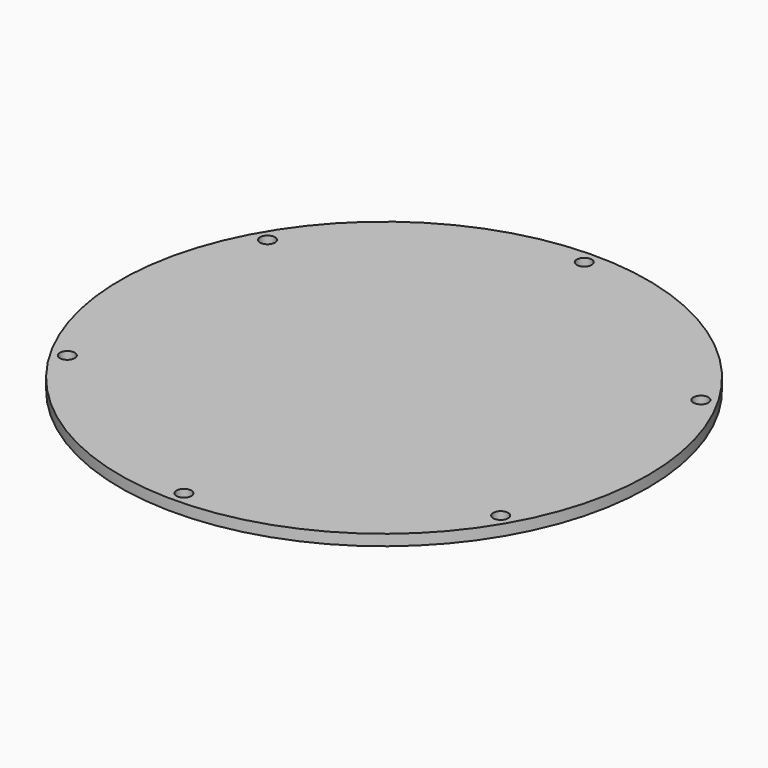
from build123d import *

# Parameters (mm, degrees)
F0_R     = 76.2
F0_R_2   = 2.15265
F1_DEPTH = 3.175


with BuildPart() as f1:
    # F0 (on Top) → F1 (new body)
    with BuildSketch(Plane.XY):
        Circle(F0_R)
        with Locations((-62.554097, -36.115625)):
            Circle(F0_R_2, mode=Mode.SUBTRACT)
        with Locations((0, -72.23125)):
            Circle(F0_R_2, mode=Mode.SUBTRACT)
        with Locations((62.554097, -36.115625)):
            Circle(F0_R_2, mode=Mode.SUBTRACT)
        with Locations((-62.554097, 36.115625)):
            Circle(F0_R_2, mode=Mode.SUBTRACT)
        with Locations((62.554097, 36.115625)):
            Circle(F0_R_2, mode=Mode.SUBTRACT)
        with Locations((0, 72.23125)):
            Circle(F0_R_2, mode=Mode.SUBTRACT)
    extrude(amount=F1_DEPTH)


solid = f1.part
